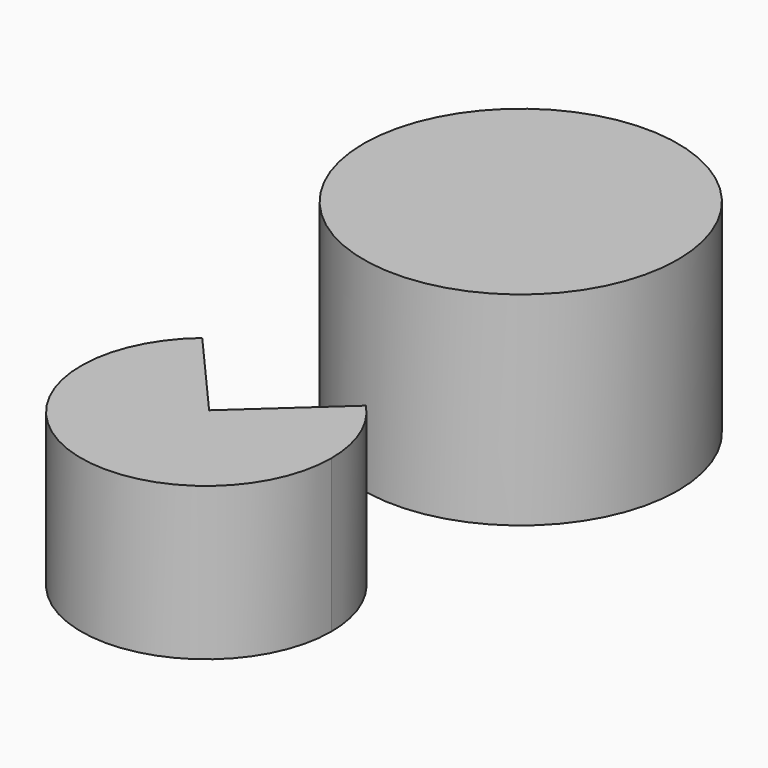
from build123d import *

# Parameters (mm, degrees)
F2_DEPTH = 14.296287
F0_R     = 29.432581
F3_DEPTH = 19.05


with BuildPart() as f2:
    # F1 (on face) → F2 (new body, symmetric)
    with BuildSketch(Plane.XY):
        with BuildLine():
            ThreePointArc((23.443553, -26.761964), (21.770109, -18.063544), (16.988686, -10.606943))
            Line((16.988686, -10.606943), (0, -26.087388))
            Line((0, -26.087388), (-15.10051, -8.829458))
            ThreePointArc((-15.10051, -8.829458), (-9.88915, -48.017666), (23.443553, -26.761964))
        make_face()
    extrude(amount=F2_DEPTH, both=True)


with BuildPart() as f3:
    # F0 (on Top) → F3 (new body, symmetric)
    with BuildSketch(Plane.XY):
        with Locations((0, 46.885327)):
            Circle(F0_R)
    extrude(amount=F3_DEPTH, both=True)


solid = Compound([f2.part, f3.part])
